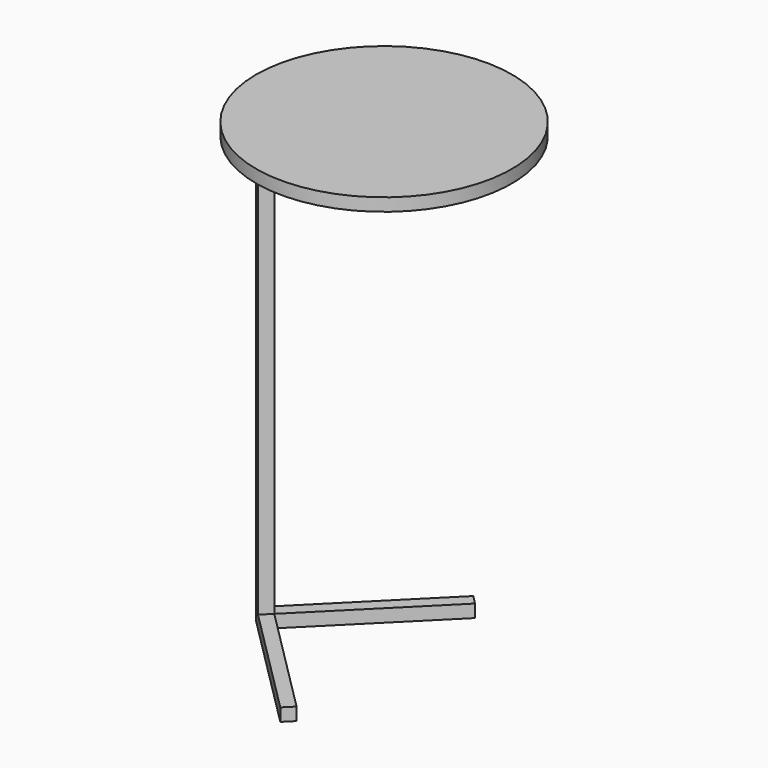
from build123d import *

# Parameters (mm, degrees)
F1_DEPTH = 550
F2_DEPTH = 15
F3_DEPTH = 550
F4_DEPTH = 15
F5_START = 550
F5_DEPTH = 15


with BuildPart() as f1:
    # F0 (on Top) → F1 (new body)
    with BuildSketch(Plane.XY):
        Polygon((10.6066017178, 10.6066017178), (0, 0), (10.6066017178, -10.6066017178), (13.7132034356, -7.5), (21.2132034356, 0), (13.7132034356, 7.5), align=None)
    extrude(amount=F1_DEPTH)


with BuildPart() as f2:
    # F0 (on Top) → F2 (new body)
    with BuildSketch(Plane.XY):
        Polygon((141.4213562373, 141.4213562373), (10.6066017178, 10.6066017178), (13.7132034356, 7.5), (28.7132034356, 7.5), (152.0279579551, 130.8147545195), align=None)
        Polygon((28.7132034356, 7.5), (13.7132034356, 7.5), (21.2132034356, 0), align=None)
    extrude(amount=F2_DEPTH)


with BuildPart() as f2b:
    # F0 (on Top) → F2, piece 2 (new body)
    with BuildSketch(Plane.XY):
        Polygon((13.7132034356, -7.5), (10.6066017178, -10.6066017178), (141.4213562373, -141.4213562373), (152.0279579551, -130.8147545195), (28.7132034356, -7.5), align=None)
        Polygon((21.2132034356, 0), (13.7132034356, -7.5), (28.7132034356, -7.5), align=None)
    extrude(amount=F2_DEPTH)


with BuildPart() as f3:
    # F0 (on Top) → F3 (new body)
    with BuildSketch(Plane.XY):
        Polygon((28.7132034356, 7.5), (21.2132034356, 0), (28.7132034356, -7.5), (115, -7.5), (128.7132034356, -7.5), (128.7132034356, 0), (128.7132034356, 7.5), (115, 7.5), align=None)
        Polygon((28.7132034356, 7.5), (13.7132034356, 7.5), (21.2132034356, 0), align=None)
        Polygon((21.2132034356, 0), (13.7132034356, -7.5), (28.7132034356, -7.5), align=None)
        Polygon((185.7106781187, 78.2106781187), (115, 7.5), (128.7132034356, 7.5), (128.7132034356, 0), (196.3172798365, 67.6040764009), align=None)
        Polygon((128.7132034356, -7.5), (115, -7.5), (185.7106781187, -78.2106781187), (196.3172798365, -67.6040764009), (128.7132034356, 0), align=None)
    extrude(amount=F3_DEPTH)

    # F4 (intersect): a face of the model
    f4_faces = [f3.faces().sort_by_distance(p)[0] for p in [
        (126.2279911766, 0, 550),
    ]]
    extrude(f4_faces, amount=-F4_DEPTH, mode=Mode.INTERSECT)


with BuildPart() as f5:
    # F0 (on Top) → F5 (new body)
    with BuildSketch(Plane.XY.offset(F5_START)):
        with BuildLine():
            ThreePointArc((300, 0), (150, 150), (0, 0))
            ThreePointArc((0, 0), (150, -150), (300, 0))
        make_face()
        Polygon((10.6066017178, -10.6066017178), (0, 0), (10.6066017178, 10.6066017178), (141.4213562373, 141.4213562373), (152.0279579551, 130.8147545195), (28.7132034356, 7.5), (115, 7.5), (185.7106781187, 78.2106781187), (196.3172798365, 67.6040764009), (128.7132034356, 0), (196.3172798365, -67.6040764009), (185.7106781187, -78.2106781187), (115, -7.5), (28.7132034356, -7.5), (152.0279579551, -130.8147545195), (141.4213562373, -141.4213562373), align=None, mode=Mode.SUBTRACT)
        Polygon((185.7106781187, 78.2106781187), (115, 7.5), (128.7132034356, 7.5), (128.7132034356, 0), (196.3172798365, 67.6040764009), align=None)
        Polygon((128.7132034356, -7.5), (115, -7.5), (185.7106781187, -78.2106781187), (196.3172798365, -67.6040764009), (128.7132034356, 0), align=None)
        Polygon((28.7132034356, 7.5), (21.2132034356, 0), (28.7132034356, -7.5), (115, -7.5), (128.7132034356, -7.5), (128.7132034356, 0), (128.7132034356, 7.5), (115, 7.5), align=None)
        Polygon((13.7132034356, -7.5), (10.6066017178, -10.6066017178), (141.4213562373, -141.4213562373), (152.0279579551, -130.8147545195), (28.7132034356, -7.5), align=None)
        Polygon((141.4213562373, 141.4213562373), (10.6066017178, 10.6066017178), (13.7132034356, 7.5), (28.7132034356, 7.5), (152.0279579551, 130.8147545195), align=None)
        Polygon((10.6066017178, 10.6066017178), (0, 0), (10.6066017178, -10.6066017178), (13.7132034356, -7.5), (21.2132034356, 0), (13.7132034356, 7.5), align=None)
        Polygon((21.2132034356, 0), (13.7132034356, -7.5), (28.7132034356, -7.5), align=None)
        Polygon((28.7132034356, 7.5), (13.7132034356, 7.5), (21.2132034356, 0), align=None)
    extrude(amount=F5_DEPTH)


solid = Compound([f1.part, f2.part, f2b.part, f3.part, f5.part])
